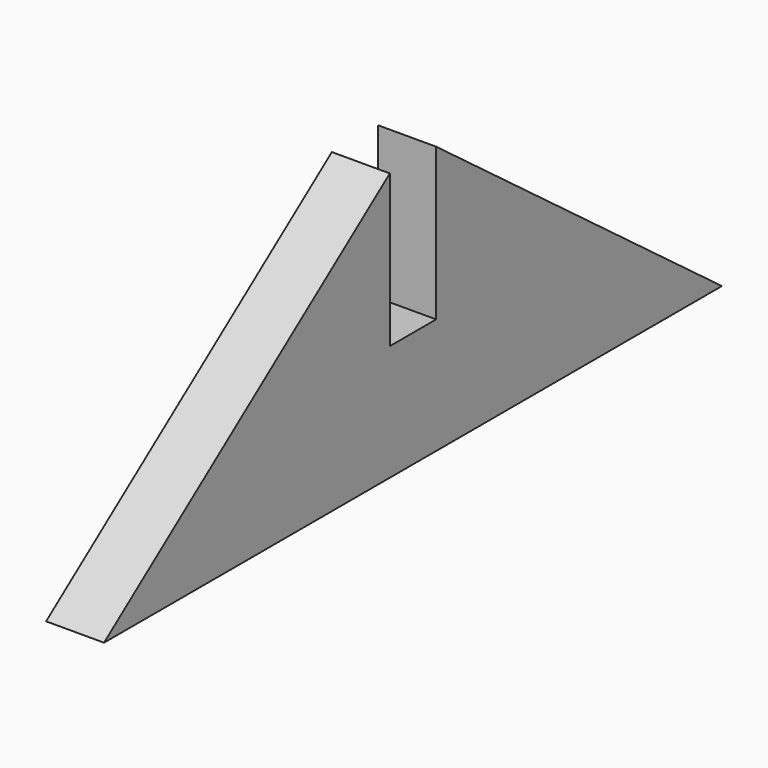
from build123d import *

# Parameters (mm, degrees)
F1_DEPTH = 1.5
F3_DEPTH = 25


with BuildPart() as f1:
    # F0 (on Right) → F1 (new body, symmetric)
    with BuildSketch(Plane.YZ):
        Polygon((0, 15), (-20, 0), (20, 0), align=None)
    extrude(amount=F1_DEPTH, both=True)

    # F2 (on face) → F3 (cut)
    with BuildSketch(Plane.YZ.offset(1.5)):
        Polygon((-1.5, 13.875), (-1.5, 6), (1.5, 6), (1.5, 13.875), (0, 15), align=None)
    extrude(amount=-F3_DEPTH, mode=Mode.SUBTRACT)


solid = f1.part
